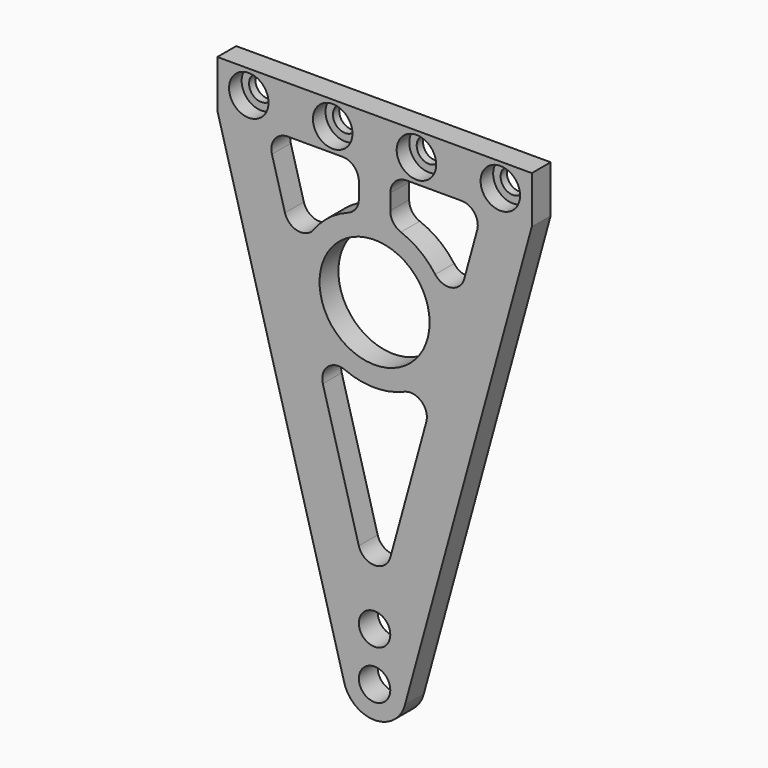
from build123d import *

# Parameters (mm, degrees)
F0_R           = 11.1125
F1_DEPTH       = 4.7625
F3_DEPTH       = 4.7635
F4_R           = 3.302
F5_R           = 3.175
F6_DEPTH       = 4.7635
F8_D           = 4.9784
F8_CBORE_D     = 7.9756
F8_CBORE_DEPTH = 3.175


with BuildPart() as f1:
    # F0 (on Front) → F1 (new body)
    with BuildSketch(Plane.XZ):
        with BuildLine():
            Line((31.75, 29.791584), (31.75, 39.316584))
            Line((31.75, 39.316584), (-31.75, 39.316584))
            Line((-31.75, 39.316584), (-31.75, 29.791584))
            Line((-31.75, 29.791584), (-6.123568, -63.583015))
            ThreePointArc((-6.123568, -63.583015), (0, -68.252416), (6.123568, -63.583015))
            Line((6.123568, -63.583015), (31.75, 29.791584))
        make_face()
        with Locations((0, 6.017184)):
            Circle(F0_R, mode=Mode.SUBTRACT)
    extrude(amount=F1_DEPTH)

    # F2 (on face) → F3 (cut, through all)
    with BuildSketch(Plane.XZ.offset(4.7625)):
        with BuildLine():
            Line((-3.175, 29.791584), (-21.872793, 29.791584))
            Line((-21.872793, 29.791584), (-15.161242, 5.336816))
            ThreePointArc((-15.161242, 5.336816), (-12.011665, 15.293285), (-3.175, 20.857855))
            Line((-3.175, 20.857855), (-3.175, 29.791584))
        make_face()
        with BuildLine():
            Line((15.161242, 5.336816), (21.872793, 29.791584))
            Line((21.872793, 29.791584), (3.175, 29.791584))
            Line((3.175, 29.791584), (3.175, 20.857855))
            ThreePointArc((3.175, 20.857855), (12.011665, 15.293285), (15.161242, 5.336816))
        make_face()
        with BuildLine():
            Line((0, -49.905946), (13.384579, -1.13678))
            ThreePointArc((13.384579, -1.13678), (0, -9.159316), (-13.384579, -1.13678))
            Line((-13.384579, -1.13678), (0, -49.905946))
        make_face()
    extrude(amount=-F3_DEPTH, mode=Mode.SUBTRACT)

    # F4
    f4_edges = [f1.edges().sort_by_distance(p)[0] for p in [
        (-21.872793, -2.38125, 29.791584),
        (3.175, -2.38125, 29.791584),
        (-3.175, -2.38125, 29.791584),
        (21.872793, -2.38125, 29.791584),
        (3.175, -2.38125, 20.857855),
        (-3.175, -2.38125, 20.857855),
        (15.161242, -2.38125, 5.336816),
        (-15.161242, -2.38125, 5.336816),
        (-13.384579, -2.38125, -1.13678),
        (13.384579, -2.38125, -1.13678),
        (0, -2.38125, -49.905946),
    ]]
    fillet(f4_edges, radius=F4_R)

    # F5 (on face) → F6 (cut, through all)
    with BuildSketch(Plane.XZ.offset(4.7625)):
        with Locations((0, -61.902416)):
            Circle(F5_R)
        with Locations((0, -52.047216)):
            Circle(F5_R)
    extrude(amount=-F6_DEPTH, mode=Mode.SUBTRACT)

    # F8 (through all)
    with Locations(Plane.XZ.offset(4.7625)):
        with Locations((-25.4, 34.554084), (-8.4582, 34.554084), (8.4582, 34.554084), (25.4, 34.554084)):
            CounterBoreHole(F8_D / 2, F8_CBORE_D / 2, F8_CBORE_DEPTH)


solid = f1.part
